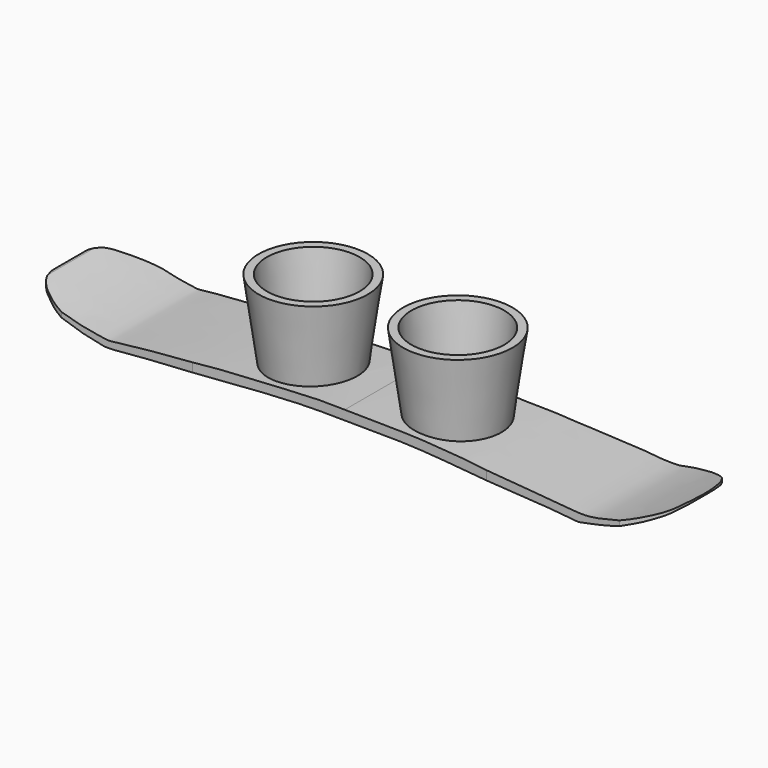
from build123d import *

# Parameters (mm, degrees)
F1_DEPTH  = 18
F3_DEPTH  = 12.5
F5_R      = 7
F6_DEPTH  = 13
F6_TAPER  = -8
F7_R      = 7.5
F8_DEPTH  = 12
F8_TAPER  = 6
F9_R      = 7.5
F10_DEPTH = 12
F10_TAPER = 6


with BuildPart() as f1:
    # F0 (on Front) → F1 (new body)
    with BuildSketch(Plane.XZ):
        with BuildLine():
            add(Edge.make_bspline(
                [(0, 4.5734154992), (-1.2084626228, 4.5850756487), (-3.5485766732, 4.6076548161), (-6.6189823918, 4.4437888577), (-10.1333079456, 4.3297074996), (-13.1332640868, 4.191334111), (-16.9044028757, 4.073933113), (-19.7113067727, 3.966882945), (-22.5439386118, 3.7587567095), (-27.9647577574, 3.3600438707), (-31.7725982144, 3.008098462), (-35.9817137993, 2.50623272), (-36.7595735351, 2.3875007505), (-37.2928796523, 2.376780277), (-37.9094691801, 2.3073863004), (-39.1305686628, 2.5048412523), (-41.0168166481, 2.8088555388), (-42.427059902, 3.0938957658), (-44.068608367, 3.5205018237), (-46.2864012609, 4.2089003709), (-47.9023348371, 4.65019374), (-49.6493475205, 5.3458988109), (-50.122200067, 5.5206621564), (-50.6049784635, 5.6691990926), (-50.8703738451, 5.7508535683)],
                knots=[0, 0, 0, 0, 0.0587700977, 0.1138047043, 0.1717345409, 0.2265734617, 0.2870013738, 0.3388290531, 0.3915348265, 0.4634987754, 0.5281413806, 0.5906843153, 0.6175208303, 0.6390774555, 0.6631070699, 0.6977602487, 0.741225065, 0.7787183981, 0.8193349072, 0.8666524567, 0.9087344593, 0.9503922873, 0.9727293973, 1, 1, 1, 1], degree=3))
            add(Edge.make_bspline(
                [(-50.8703738451, 5.7508535683), (-50.9605644732, 5.7593156499), (-51.1077496926, 5.7731252148), (-51.2441733599, 5.7789774644), (-51.2396839917, 5.5090407694), (-50.8576901624, 5.3804557163), (-50.0735365027, 4.9664459854), (-48.7602542114, 4.4170178332), (-47.1487998392, 3.7014279225), (-45.5342327702, 3.1584355033), (-43.2264524792, 2.3724935637), (-41.4449026998, 1.8747065089), (-39.0188967964, 1.355019759), (-37.6957058914, 1.1443327049), (-32.860871475, 1.6635195052), (-30.9214485397, 1.7608219887), (-25.9446417707, 2.0842007014), (-23.4126559829, 2.2351586776), (-19.2005786813, 2.4926683953), (-13.259218177, 2.7751641375), (-7.7397020611, 3.0057800041), (-0.0803733975, 3.0463557296), (8.3090252664, 3.0100204985), (12.8933813171, 2.8680344312), (20.4892468978, 2.4895587322), (24.8161210492, 2.1734314953), (30.6349483897, 1.797368637), (34.3059210979, 1.6114578996), (36.9600978542, 1.2848768794), (37.5425209902, 1.2431069342), (38.3200724083, 1.1866810324), (39.9087426358, 1.5494529935), (40.7836053391, 1.7255120682), (42.9415599577, 2.2116363219), (44.32670966, 2.6446602479), (45.0305640697, 2.8646984138)],
                knots=[0, 0, 0, 0, 0.0096031345, 0.0156716889, 0.0239193517, 0.0353581828, 0.0533409964, 0.0765053775, 0.1019257852, 0.1273096701, 0.1569466253, 0.1839383719, 0.2131366836, 0.2365850255, 0.2776405637, 0.306917039, 0.3485818724, 0.3800363645, 0.4187744749, 0.4657436192, 0.5110238571, 0.5647294145, 0.6199331523, 0.6621304076, 0.7140185403, 0.755367785, 0.8010838969, 0.8392281917, 0.8693768164, 0.8834638009, 0.9001012463, 0.924311134, 0.9430816385, 0.9710773214, 1, 1, 1, 1], degree=3))
            add(Edge.make_bspline(
                [(45.0305640697, 2.8646984138), (45.3775856596, 2.9891823161), (46.0696129822, 3.2374269907), (47.129702839, 3.6416606271), (47.6962617344, 3.8407575787), (48.3791038009, 4.1041221985), (49.2036831316, 4.4818604868), (49.8926445886, 4.7298363609), (50.6821584129, 5.1695959165), (51.0346817254, 5.3315381906), (51.053849223, 5.5933048984), (50.8053440545, 5.6142245523), (50.3949860753, 5.4393953326), (48.980161563, 4.9294247385), (46.9593167499, 4.2838503776), (45.3344826534, 3.7049864635), (44.4280843705, 3.5152368658), (43.2582587482, 3.1701497843), (41.2738456018, 2.7358868017), (40.2210838693, 2.5832769991), (39.5475525482, 2.521606899), (38.6148763317, 2.5136290221), (37.1149765892, 2.5588619116), (36.2211938108, 2.7141341686), (31.398466919, 3.0540616448), (28.6794846991, 3.3597259117), (23.0051545904, 3.7376145855), (21.6281490789, 3.9281250696), (19.0451222907, 4.109340444), (15.6391604986, 4.2088863243), (11.7613533523, 4.4445606487), (8.3179126258, 4.4531810259), (5.612179604, 4.521890116), (2.0221418818, 4.5830953953), (0.6067611558, 4.5763200357), (0, 4.5734154992)],
                knots=[0, 0, 0, 0, 0.026055155, 0.051958955, 0.070892751, 0.0916777075, 0.1149356397, 0.1364380442, 0.1597324, 0.1744970023, 0.1847829924, 0.1951834755, 0.2110398785, 0.2407693201, 0.2775922469, 0.3095623283, 0.3325763951, 0.359651728, 0.3949256144, 0.4201828888, 0.439634378, 0.4635504728, 0.4927401261, 0.5171327376, 0.5690622561, 0.6140400233, 0.6707865012, 0.7005955904, 0.738515127, 0.7844651943, 0.8331935015, 0.8782861623, 0.9191847763, 0.9653552308, 1, 1, 1, 1], degree=3))
        make_face()
    extrude(amount=F1_DEPTH)

    # F2 (on Top) → F3 (intersect, symmetric)
    with BuildSketch(Plane.XY):
        with BuildLine():
            add(Edge.make_bspline(
                [(41.5672957897, 0.2178860595), (41.3606166377, 0.2486901551), (40.9283001513, 0.313123932), (40.1385002274, 0.3789962645), (39.4235226767, 0.3976340785), (38.0184944013, 0.3752575342), (36.2274100915, 0.1151902327), (33.3144927856, -0.0887126338), (31.7657782697, -0.1331973155), (28.832446789, -0.2737293636), (25.7015596041, -0.4215708428), (18.953155785, -0.7690123466), (16.4202714813, -0.9167405464), (8.7887494822, -0.9779135275), (4.7886691258, -1.0011310291), (-1.1514759023, -1.0678275291), (-5.7783275295, -1.0155653669), (-10.3777107693, -1.0842306024), (-13.2255546278, -0.9473480206), (-16.9687002922, -0.7694483223), (-21.3218684491, -0.6463553618), (-26.5326633431, -0.4309525905), (-30.3171824633, -0.2748183096), (-31.8542001458, -0.1831327386), (-35.1062297725, -0.0159237084), (-35.499728599, 0.0410370782), (-36.0423206466, 0.1208557958), (-36.7872019686, 0.1770232027), (-37.9991281275, 0.378568862), (-39.0137311934, 0.4058405157), (-39.5540967584, 0.4203650751)],
                knots=[0, 0, 0, 0, 0.0179425175, 0.037530859, 0.0564263118, 0.082149791, 0.1130408542, 0.1507071233, 0.1791356655, 0.215782073, 0.2571853736, 0.3137948889, 0.3519450852, 0.4118156374, 0.4586312555, 0.5118382886, 0.5610009116, 0.608103887, 0.6458158884, 0.6882344342, 0.7353147415, 0.7871276116, 0.829356427, 0.8589213955, 0.89806697, 0.9123918372, 0.927939989, 0.947250357, 0.9719061655, 1, 1, 1, 1], degree=3))
            add(Edge.make_bspline(
                [(-39.5540967584, 0.4203650751), (-40.603707189, 0.36267321), (-42.6718574802, 0.2489972745), (-45.4873925685, -0.432879901), (-48.0735885604, -1.6185935875), (-49.5086609867, -2.6083265682), (-50.5269249986, -3.601415405), (-51.2477252471, -5.50080754), (-51.5063540808, -7.0231928863), (-51.599528537, -11.0979808409), (-50.9410795173, -13.6552698011), (-50.7161482256, -14.4297767725), (-49.7976373759, -15.6317460793), (-49.0393665891, -16.2582624046), (-47.5992307632, -17.1178236643), (-46.295151858, -17.7419977866), (-43.868607837, -18.4736646231), (-41.7928639764, -18.8934337139), (-39.2436605309, -18.8656549073), (-36.5532950022, -18.7127366291), (-34.2257006472, -18.5322425049), (-31.8511293094, -18.3216162719), (-29.3179436818, -18.2854050499), (-26.6654884623, -18.1091445263), (-20.5760639795, -17.8257797855), (-15.7819042987, -17.6969141064), (-11.543988028, -17.5430741347), (-9.676907099, -17.4637000453), (-6.0374607017, -17.4347846639), (-2.9146315835, -17.4085048379), (-0.1418098419, -17.5488067513), (4.9932579398, -17.4614880986), (12.8860665607, -17.5632138447), (17.1494233933, -17.7734307479), (24.2136918041, -18.0250927127), (28.2137477633, -18.2280851798), (32.0024385182, -18.4183017133), (36.4968919393, -18.8435389372), (39.4390917586, -18.9492920855), (42.2078753354, -18.7115963606), (45.1974064901, -17.9238522169), (47.5459584327, -16.9693223315), (49.0423863023, -15.860868557), (49.8497819607, -15.0307508185), (50.4403214862, -14.0192454525), (50.678468499, -12.6646153987), (50.9038057965, -11.318685546), (51.0454847998, -7.6271493565), (50.8033929836, -6.1321650984), (50.512372289, -4.7346902183), (50.0274516496, -3.952394176), (49.5153775693, -3.176392335), (48.927757817, -2.6670853126), (48.2366348631, -2.1593339547), (46.6926920784, -1.3050090826), (45.373028171, -0.6691602323), (43.1178908191, -0.1265404991), (42.0528124445, 0.1100404729), (41.5672957897, 0.2178860595)],
                knots=[0, 0, 0, 0, 0.0202154193, 0.0398324217, 0.0590823065, 0.074018415, 0.0875292575, 0.10332115, 0.1178679359, 0.1411208583, 0.1595793434, 0.1697619497, 0.1833620583, 0.1950824512, 0.2095246152, 0.2235863772, 0.2415986099, 0.258447321, 0.2766305844, 0.2954994547, 0.3129998404, 0.33067088, 0.3485462162, 0.367308585, 0.3954015909, 0.4214645701, 0.4443531274, 0.4601685272, 0.4817532127, 0.5021400446, 0.520778824, 0.5469043054, 0.5789648124, 0.6034470594, 0.6334479729, 0.6566099233, 0.6788027907, 0.7031330754, 0.7228022247, 0.7417167731, 0.7619062211, 0.7802505445, 0.7956445993, 0.8078120699, 0.8200403194, 0.8330627973, 0.8468685949, 0.8686944597, 0.8833218801, 0.8965298506, 0.9075478114, 0.9184734594, 0.9283794401, 0.93899004, 0.9539830657, 0.9682436217, 0.9855238348, 1, 1, 1, 1], degree=3))
        make_face()
    extrude(amount=F3_DEPTH, both=True, mode=Mode.INTERSECT)

    # F5 (on offset) → F6 (join)
    with BuildSketch(Plane.XY.offset(3.7)):
        with Locations((11.6780083627, -9.2775239936)):
            Circle(F5_R)
        with Locations((-11.6780083627, -9.2775239936)):
            Circle(F5_R)
    extrude(amount=F6_DEPTH, taper=F6_TAPER)

    # F7 (on face) → F8 (cut)
    with BuildSketch(Plane.XY.offset(16.7)):
        with Locations((-11.6780083627, -9.2775239936)):
            Circle(F7_R)
    extrude(amount=-F8_DEPTH, taper=F8_TAPER, mode=Mode.SUBTRACT)

    # F9 (on face) → F10 (cut)
    with BuildSketch(Plane.XY.offset(16.7)):
        with Locations((11.6780083627, -9.2775239936)):
            Circle(F9_R)
    extrude(amount=-F10_DEPTH, taper=F10_TAPER, mode=Mode.SUBTRACT)


solid = f1.part
